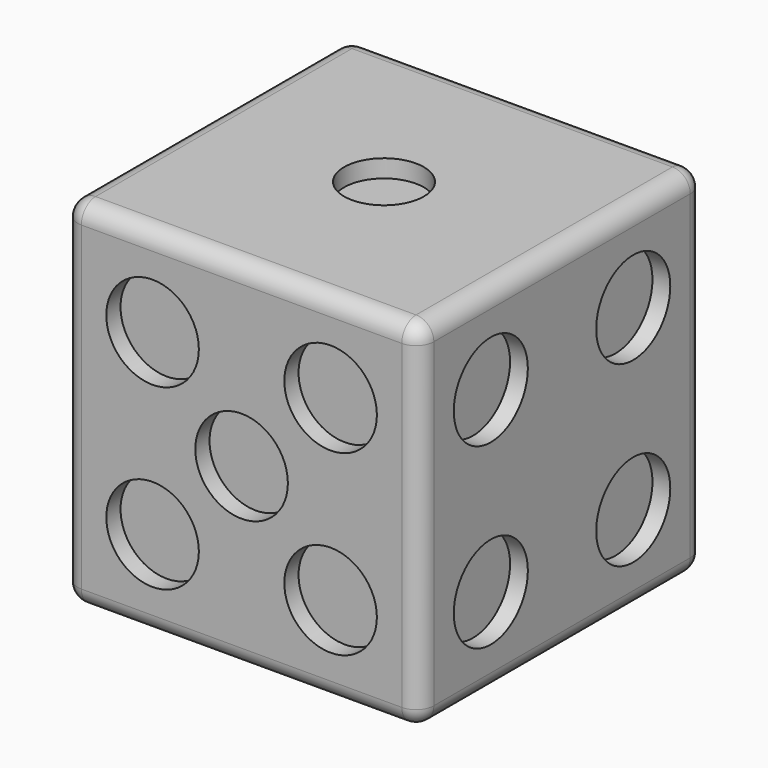
from build123d import *

# Parameters (mm, degrees)
F0_W     = 20
F0_H     = 20
F1_DEPTH = 20
F2_R     = 2.6
F3_DEPTH = 1
F4_R     = 2.6
F5_DEPTH = 1
F6_R     = 2.238333
F7_DEPTH = 1
F8_R     = 2.6
F9_DEPTH = 1
F10_R    = 1


with BuildPart() as f1:
    # F0 (on Front) → F1 (new body)
    with BuildSketch(Plane.XZ):
        with Locations((10, 10)):
            Rectangle(F0_W, F0_H)
    extrude(amount=F1_DEPTH)

    # F2 (on face) → F3 (cut)
    with BuildSketch(Plane.XZ.offset(20)):
        with Locations((10, 10)):
            Circle(F2_R)
        with Locations((5, 15)):
            Circle(F2_R)
        with Locations((15, 5)):
            Circle(F2_R)
        with Locations((15, 15)):
            Circle(F2_R)
        with Locations((5, 5)):
            Circle(F2_R)
    extrude(amount=-F3_DEPTH, mode=Mode.SUBTRACT)

    # F4 (on face) → F5 (cut)
    with BuildSketch(Plane(origin=(0, 0, 0), x_dir=(-1, 0, 0), z_dir=(0, 1, 0))):
        with Locations((-5, 15)):
            Circle(F4_R)
        with Locations((-15, 5)):
            Circle(F4_R)
    extrude(amount=-F5_DEPTH, mode=Mode.SUBTRACT)

    # F6 (on face) → F7 (cut)
    with BuildSketch(Plane.XY.offset(20)):
        with Locations((10, -10)):
            Circle(F6_R)
    extrude(amount=-F7_DEPTH, mode=Mode.SUBTRACT)

    # F8 (on face) → F9 (cut)
    with BuildSketch(Plane.YZ.offset(20)):
        with Locations((-15, 5)):
            Circle(F8_R)
        with Locations((-15, 15)):
            Circle(F8_R)
        with Locations((-5, 15)):
            Circle(F8_R)
        with Locations((-5, 5)):
            Circle(F8_R)
    extrude(amount=-F9_DEPTH, mode=Mode.SUBTRACT)

    # F10
    f10_edges = [f1.edges().sort_by_distance(p)[0] for p in [
        (20, 0, 10),
        (20, -10, 20),
        (10, 0, 20),
        (0, 0, 10),
        (0, -10, 20),
        (20, -10, 0),
        (10, 0, 0),
        (0, -10, 0),
        (0, -20, 10),
        (10, -20, 0),
        (20, -20, 10),
        (10, -20, 20),
    ]]
    fillet(f10_edges, radius=F10_R)


solid = f1.part
